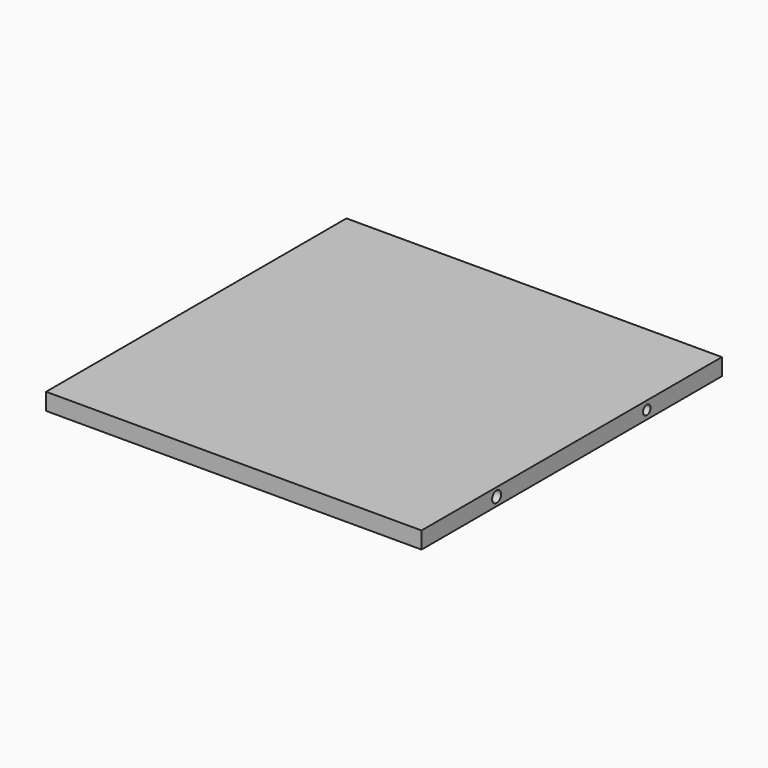
from build123d import *

# Parameters (mm, degrees)
F0_W     = 200
F0_H     = 200
F1_DEPTH = 9
F2_R     = 2.983791
F2_R_2   = 2.5
F3_DEPTH = 25
F4_DEPTH = 15


with BuildPart() as f1:
    # F0 (on Top) → F1 (new body)
    with BuildSketch(Plane.XY):
        Rectangle(F0_W, F0_H)
    extrude(amount=F1_DEPTH)

    # F2 (on face) → F3 (cut)
    with BuildSketch(Plane.YZ.offset(100)):
        with Locations((-50, 4.5)):
            Circle(F2_R)
        with Locations((50, 4.5)):
            Circle(F2_R_2)
    extrude(amount=-F3_DEPTH, mode=Mode.SUBTRACT)

    # F2 (on face) → F4 (cut)
    with BuildSketch(Plane.YZ.offset(100)):
        with Locations((-50, 4.5)):
            Circle(F2_R)
    extrude(amount=-F4_DEPTH, mode=Mode.SUBTRACT)


solid = f1.part
